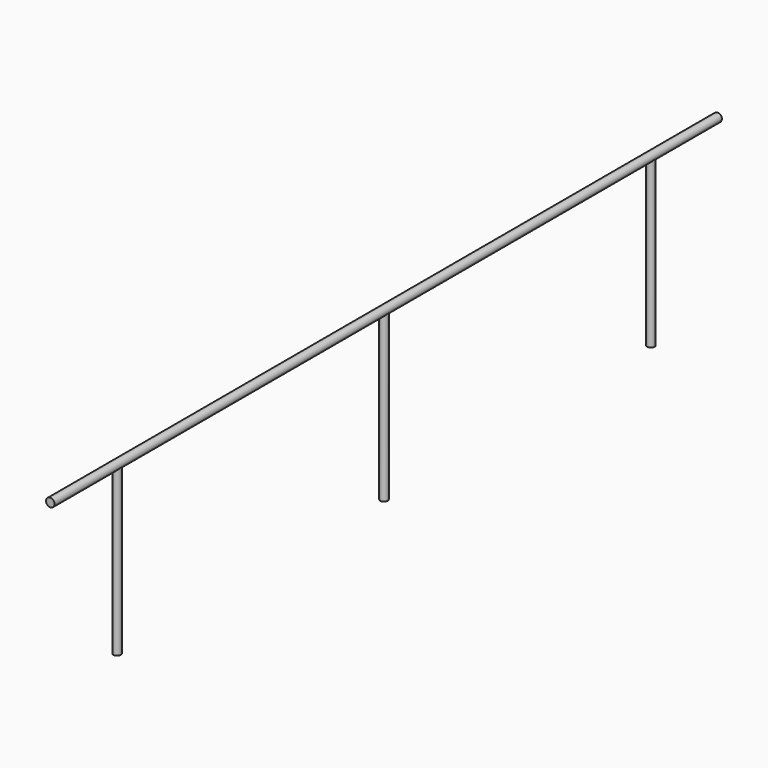
from build123d import *

# Parameters (mm, degrees)
F0_R     = 12.7
F1_DEPTH = 1250
F2_R     = 11.2
F3_DEPTH = 500


with BuildPart() as f1:
    # F0 (on Front) → F1 (new body, symmetric)
    with BuildSketch(Plane.XZ):
        Circle(F0_R)
    extrude(amount=F1_DEPTH, both=True)

    # F2 (on Top) → F3 (join)
    with BuildSketch(Plane.XY):
        Circle(F2_R)
        with Locations((0, -1000)):
            Circle(F2_R)
        with Locations((0, 1000)):
            Circle(F2_R)
    extrude(amount=-F3_DEPTH)


solid = f1.part
